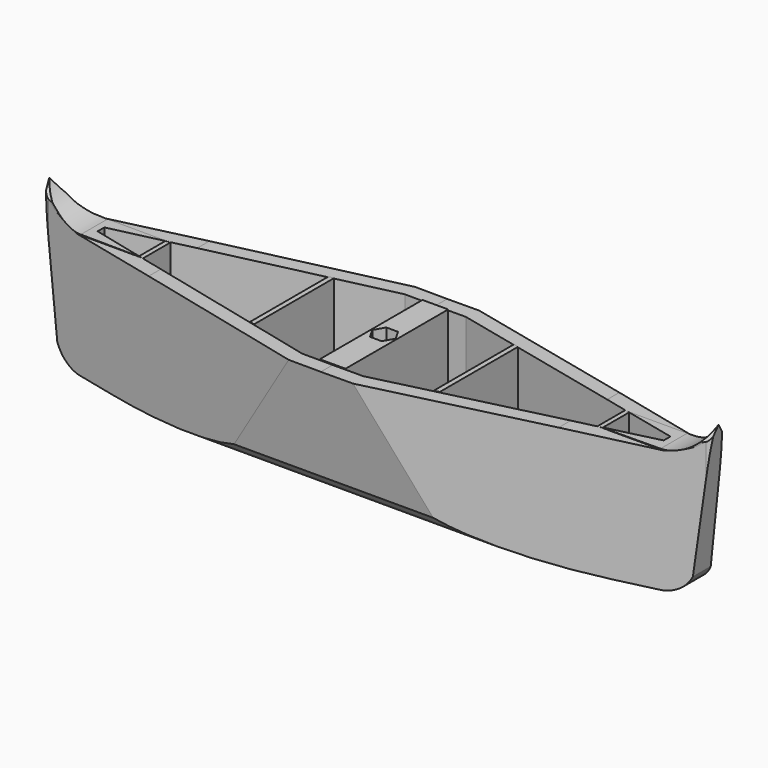
from build123d import *

# Parameters (mm, degrees)
F1_DEPTH  = 762
F3_DEPTH  = 3262.12516
F5_DEPTH  = 5632.86409
F0_W      = 64.2092358321
F0_H      = 320.2939988333
F6_DEPTH  = 615.5799728
F7_DEPTH  = 154.50383
F8_DEPTH  = 5077.3668
F10_DEPTH = 256.54628


with BuildPart() as f1:
    # F0 (on Top) → F1 (new body)
    with BuildSketch(Plane.XY):
        with BuildLine():
            Line((152.4, 396), (0, 396))
            Line((0, 396), (0, 320.2939988333))
            Line((0, 320.2939988333), (64.2092358321, 320.2939988333))
            Line((64.2092358321, 320.2939988333), (152.4, 320.2939988333))
            Line((152.4, 320.2939988333), (448.4036082625, 250.0443583168))
            Line((448.4036082625, 250.0443583168), (473.4656074554, 244.0964698966))
            Line((473.4656074554, 244.0964698966), (1134.202851765, 87.2856993755))
            Line((1134.202851765, 87.2856993755), (1157.4211369828, 81.7753740131))
            Line((1157.4211369828, 81.7753740131), (1412.5922299482, 21.2163907755))
            Line((1412.5922299482, 21.2163907755), (1412.5922299482, 0))
            Line((1412.5922299482, 0), (1674.1474049633, 0))
            ThreePointArc((1674.1474049633, 0), (1664.6471807808, 27.3388481675), (1640.2409076691, 42.8952202201))
            Line((1640.2409076691, 42.8952202201), (152.4, 396))
        make_face()
        with BuildLine():
            Line((0, 320.2939988333), (0, 396))
            Line((0, 396), (-152.4, 396))
            Line((-152.4, 396), (-1640.2409076691, 42.8952202201))
            ThreePointArc((-1640.2409076691, 42.8952202201), (-1664.6471807808, 27.3388481675), (-1674.1474049633, 0))
            Line((-1674.1474049633, 0), (-1412.5922299482, 0))
            Line((-1412.5922299482, 0), (-1412.5922299482, 21.2163907755))
            Line((-1412.5922299482, 21.2163907755), (-1157.4211369828, 81.7753740131))
            Line((-1157.4211369828, 81.7753740131), (-1134.202851765, 87.2856993755))
            Line((-1134.202851765, 87.2856993755), (-473.4656074554, 244.0964698966))
            Line((-473.4656074554, 244.0964698966), (-448.4036082625, 250.0443583168))
            Line((-448.4036082625, 250.0443583168), (-152.4, 320.2939988333))
            Line((-152.4, 320.2939988333), (-64.2092358321, 320.2939988333))
            Line((-64.2092358321, 320.2939988333), (0, 320.2939988333))
        make_face()
        with BuildLine():
            Line((64.2092358321, -320.2939988333), (0, -320.2939988333))
            Line((0, -320.2939988333), (0, -396))
            Line((0, -396), (152.4, -396))
            Line((152.4, -396), (1640.2409076691, -42.8952202201))
            ThreePointArc((1640.2409076691, -42.8952202201), (1664.6471807808, -27.3388481675), (1674.1474049633, 0))
            Line((1674.1474049633, 0), (1412.5922299482, 0))
            Line((1412.5922299482, 0), (1412.5922299482, -21.2163907755))
            Line((1412.5922299482, -21.2163907755), (1157.4211369828, -81.7753740131))
            Line((1157.4211369828, -81.7753740131), (1134.202851765, -87.2856993755))
            Line((1134.202851765, -87.2856993755), (473.4656074554, -244.0964698966))
            Line((473.4656074554, -244.0964698966), (448.4036082625, -250.0443583168))
            Line((448.4036082625, -250.0443583168), (152.4, -320.2939988333))
            Line((152.4, -320.2939988333), (64.2092358321, -320.2939988333))
        make_face()
        with BuildLine():
            Line((0, -396), (0, -320.2939988333))
            Line((0, -320.2939988333), (-64.2092358321, -320.2939988333))
            Line((-64.2092358321, -320.2939988333), (-152.4, -320.2939988333))
            Line((-152.4, -320.2939988333), (-448.4036082625, -250.0443583168))
            Line((-448.4036082625, -250.0443583168), (-473.4656074554, -244.0964698966))
            Line((-473.4656074554, -244.0964698966), (-1134.202851765, -87.2856993755))
            Line((-1134.202851765, -87.2856993755), (-1157.4211369828, -81.7753740131))
            Line((-1157.4211369828, -81.7753740131), (-1412.5922299482, -21.2163907755))
            Line((-1412.5922299482, -21.2163907755), (-1412.5922299482, 0))
            Line((-1412.5922299482, 0), (-1674.1474049633, 0))
            ThreePointArc((-1674.1474049633, 0), (-1664.6471807808, -27.3388481675), (-1640.2409076691, -42.8952202201))
            Line((-1640.2409076691, -42.8952202201), (-152.4, -396))
            Line((-152.4, -396), (0, -396))
        make_face()
    extrude(amount=F1_DEPTH)

    # F2 (on Front) → F3 (intersect, symmetric)
    with BuildSketch(Plane.XZ):
        Polygon((-1446.6592213701, 617.5145506859), (-1446.6592213701, 0), (0, 0), (1446.6592213701, 0), (1446.6592213701, 617.5145506859), (0, 610.9088516681), align=None)
        with BuildLine():
            ThreePointArc((-1586.0875844955, 89.3943980336), (-1529.4717005681, 24.2677958419), (-1446.6592213701, 0))
            Line((-1446.6592213701, 0), (-1446.6592213701, 617.5145506859))
            ThreePointArc((-1446.6592213701, 617.5145506859), (-1579.5504767394, 657.0582695217), (-1670.16518116, 762))
            Line((-1670.16518116, 762), (-1586.0875844955, 89.3943980336))
        make_face()
        with BuildLine():
            Line((1446.6592213701, 617.5145506859), (1446.6592213701, 0))
            ThreePointArc((1446.6592213701, 0), (1529.4717005681, 24.2677958419), (1586.0875844955, 89.3943980336))
            Line((1586.0875844955, 89.3943980336), (1670.16518116, 762))
            ThreePointArc((1670.16518116, 762), (1579.5504767394, 657.0582695217), (1446.6592213701, 617.5145506859))
        make_face()
    extrude(amount=F3_DEPTH, both=True, mode=Mode.INTERSECT)

    # F4 (on Right) → F5 (intersect, symmetric)
    with BuildSketch(Plane.YZ):
        with BuildLine():
            Line((314.2239749432, 98.7573415041), (394.6990966797, 615.5799728))
            Line((394.6990966797, 615.5799728), (85.1987600327, 615.5799728))
            ThreePointArc((85.1987600327, 615.5799728), (59.7792722532, 648.6725517035), (46.3746413589, 688.1894469261))
            Line((46.3746413589, 688.1894469261), (0, 762))
            Line((0, 762), (0, 0))
            Line((0, 0), (135.9257698059, 0))
            ThreePointArc((135.9257698059, 0), (237.7059563227, 26.5742942613), (314.2239749432, 98.7573415041))
        make_face()
        with BuildLine():
            Line((0, 0), (0, 762))
            Line((0, 762), (-46.3746413589, 688.1894469261))
            ThreePointArc((-46.3746413589, 688.1894469261), (-59.7792722532, 648.6725517035), (-85.1987600327, 615.5799728))
            Line((-85.1987600327, 615.5799728), (-394.6990966797, 615.5799728))
            Line((-394.6990966797, 615.5799728), (-314.2239749432, 98.7573415041))
            ThreePointArc((-314.2239749432, 98.7573415041), (-237.7059563227, 26.5742942613), (-135.9257698059, 0))
            Line((-135.9257698059, 0), (0, 0))
        make_face()
    extrude(amount=F5_DEPTH, both=True, mode=Mode.INTERSECT)

    # F0 (on Top) → F6 (join)
    with BuildSketch(Plane.XY):
        Polygon((-1157.4211369828, 81.7753740131), (-1157.4211369828, 0), (-1134.202851765, 0), (-1134.202851765, 87.2856993755), align=None)
        Polygon((-1134.202851765, 0), (-1157.4211369828, 0), (-1157.4211369828, -81.7753740131), (-1134.202851765, -87.2856993755), align=None)
        Polygon((-473.4656074554, 0), (-448.4036082625, 0), (-448.4036082625, 250.0443583168), (-473.4656074554, 244.0964698966), align=None)
        Polygon((-448.4036082625, -250.0443583168), (-448.4036082625, 0), (-473.4656074554, 0), (-473.4656074554, -244.0964698966), align=None)
        with Locations((32.104617916, 160.1469994167)):
            Rectangle(F0_W, F0_H)
        with Locations((32.104617916, -160.1469994167)):
            Rectangle(F0_W, F0_H)
        with Locations((-32.104617916, -160.1469994167)):
            Rectangle(F0_W, F0_H)
        with Locations((-32.104617916, 160.1469994167)):
            Rectangle(F0_W, F0_H)
        Polygon((448.4036082625, 250.0443583168), (448.4036082625, 0), (473.4656074554, 0), (473.4656074554, 244.0964698965), align=None)
        Polygon((473.4656074554, 0), (448.4036082625, 0), (448.4036082625, -250.0443583168), (473.4656074554, -244.0964698966), align=None)
        Polygon((1134.202851765, 0), (1157.4211369828, 0), (1157.4211369828, 81.7753740131), (1134.202851765, 87.2856993755), align=None)
        Polygon((1157.4211369828, -81.7753740131), (1157.4211369828, 0), (1134.202851765, 0), (1134.202851765, -87.2856993755), align=None)
    extrude(amount=F6_DEPTH)

    # F0 (on Top) → F7 (join)
    with BuildSketch(Plane.XY):
        Polygon((-64.2092358321, 0), (-64.2092358321, 320.2939988333), (-152.4, 320.2939988333), (-448.4036082625, 250.0443583168), (-448.4036082625, 0), align=None)
        Polygon((-1134.202851765, 0), (-473.4656074554, 0), (-473.4656074554, 244.0964698965), (-1134.202851765, 87.2856993755), align=None)
        Polygon((-1412.5922299482, 21.2163907755), (-1412.5922299482, 0), (-1157.4211369828, 0), (-1157.4211369828, 81.7753740131), align=None)
        Polygon((-1157.4211369828, 0), (-1412.5922299482, 0), (-1412.5922299482, -21.2163907755), (-1157.4211369828, -81.7753740131), align=None)
        Polygon((-473.4656074554, -244.0964698966), (-473.4656074554, 0), (-1134.202851765, 0), (-1134.202851765, -87.2856993755), align=None)
        Polygon((-64.2092358321, -320.2939988333), (-64.2092358321, 0), (-448.4036082625, 0), (-448.4036082625, -250.0443583168), (-152.4, -320.2939988333), align=None)
        Polygon((152.4, 320.2939988333), (64.2092358321, 320.2939988333), (64.2092358321, 0), (448.4036082625, 0), (448.4036082625, 250.0443583168), align=None)
        Polygon((448.4036082625, 0), (64.2092358321, 0), (64.2092358321, -320.2939988333), (152.4, -320.2939988333), (448.4036082625, -250.0443583168), align=None)
        Polygon((1134.202851765, 0), (473.4656074554, 0), (473.4656074554, -244.0964698965), (1134.202851765, -87.2856993755), align=None)
        Polygon((473.4656074554, 244.0964698965), (473.4656074554, 0), (1134.202851765, 0), (1134.202851765, 87.2856993755), align=None)
        Polygon((1157.4211369828, 0), (1412.5922299482, 0), (1412.5922299482, 21.2163907755), (1157.4211369828, 81.7753740131), align=None)
        Polygon((1412.5922299482, -21.2163907755), (1412.5922299482, 0), (1157.4211369828, 0), (1157.4211369828, -81.7753740131), align=None)
    extrude(amount=F7_DEPTH)

    # F4 (on Right) → F8 (intersect, symmetric)
    with BuildSketch(Plane.YZ):
        with BuildLine():
            Line((314.2239749432, 98.7573415041), (394.6990966797, 615.5799728))
            Line((394.6990966797, 615.5799728), (85.1987600327, 615.5799728))
            ThreePointArc((85.1987600327, 615.5799728), (59.7792722532, 648.6725517035), (46.3746413589, 688.1894469261))
            Line((46.3746413589, 688.1894469261), (0, 762))
            Line((0, 762), (0, 0))
            Line((0, 0), (135.9257698059, 0))
            ThreePointArc((135.9257698059, 0), (237.7059563227, 26.5742942613), (314.2239749432, 98.7573415041))
        make_face()
        with BuildLine():
            Line((0, 0), (0, 762))
            Line((0, 762), (-46.3746413589, 688.1894469261))
            ThreePointArc((-46.3746413589, 688.1894469261), (-59.7792722532, 648.6725517035), (-85.1987600327, 615.5799728))
            Line((-85.1987600327, 615.5799728), (-394.6990966797, 615.5799728))
            Line((-394.6990966797, 615.5799728), (-314.2239749432, 98.7573415041))
            ThreePointArc((-314.2239749432, 98.7573415041), (-237.7059563227, 26.5742942613), (-135.9257698059, 0))
            Line((-135.9257698059, 0), (0, 0))
        make_face()
    extrude(amount=F8_DEPTH, both=True, mode=Mode.INTERSECT)

    # F9 (on face) → F10 (cut)
    with BuildSketch(Plane.XY.offset(615.5799728)):
        Polygon((-29.3112018763, -50.7684908807), (29.3112018763, -50.7684908807), (58.6224037527, 0), (29.3112018763, 50.7684908807), (-29.3112018763, 50.7684908807), (-58.6224037527, 0), align=None)
    extrude(amount=-F10_DEPTH, mode=Mode.SUBTRACT)


solid = f1.part
